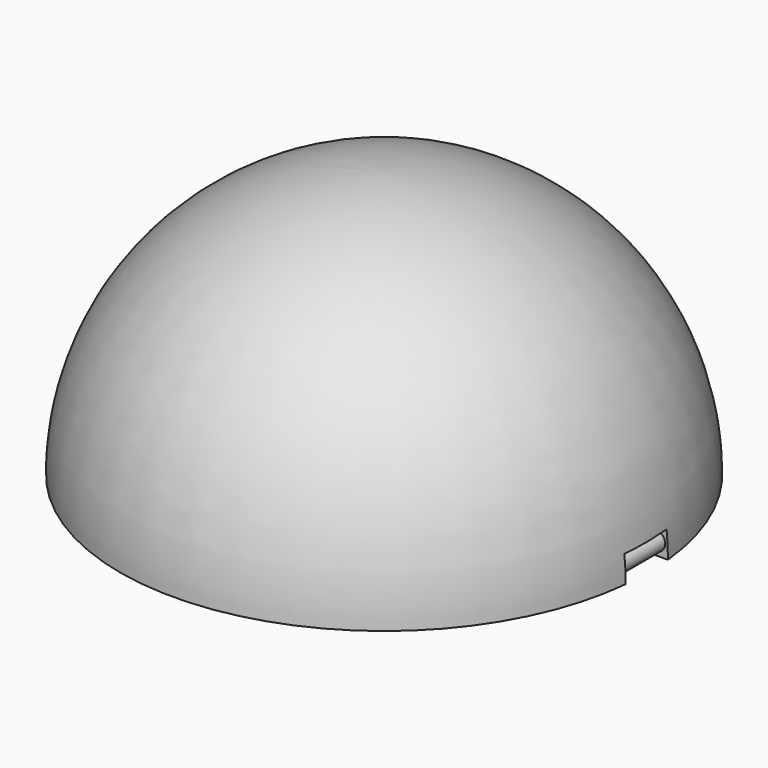
from build123d import *

# Parameters (mm, degrees)
F2_R     = 2.216344
F3_DEPTH = 6.35
F5_R     = 12.7
F6_DEPTH = 25.4


with BuildPart() as f1:
    # F0 (on Front) → F1 (revolve)
    with BuildSketch(Plane.XZ):
        with BuildLine():
            Line((0, 57.149999), (0, 63.5))
            ThreePointArc((0, 63.5), (-44.901281, 44.901281), (-63.5, 0))
            Line((-63.5, 0), (-57.149999, 0))
            ThreePointArc((-57.149999, 0), (-40.411152, 40.411152), (0, 57.149999))
        make_face()
    revolve(axis=Axis((0, 0, 60.325), (0, 0, 1)))

    # F2 (on Front) → F3 (cut, symmetric)
    with BuildSketch(Plane.XZ):
        Polygon((63.181702, 6.35), (55.221431, 6.35), (55.221431, -2.155218), (66.220038, -2.155218), (66.220038, 6.35), align=None)
        with Locations((60.325, 3.175)):
            Circle(F2_R, mode=Mode.SUBTRACT)
    extrude(amount=F3_DEPTH, both=True, mode=Mode.SUBTRACT)

    # F5 (on offset) → F6 (cut)
    with BuildSketch(Plane.YZ.offset(-63.5)):
        Circle(F5_R)
    extrude(amount=F6_DEPTH, mode=Mode.SUBTRACT)


solid = f1.part
